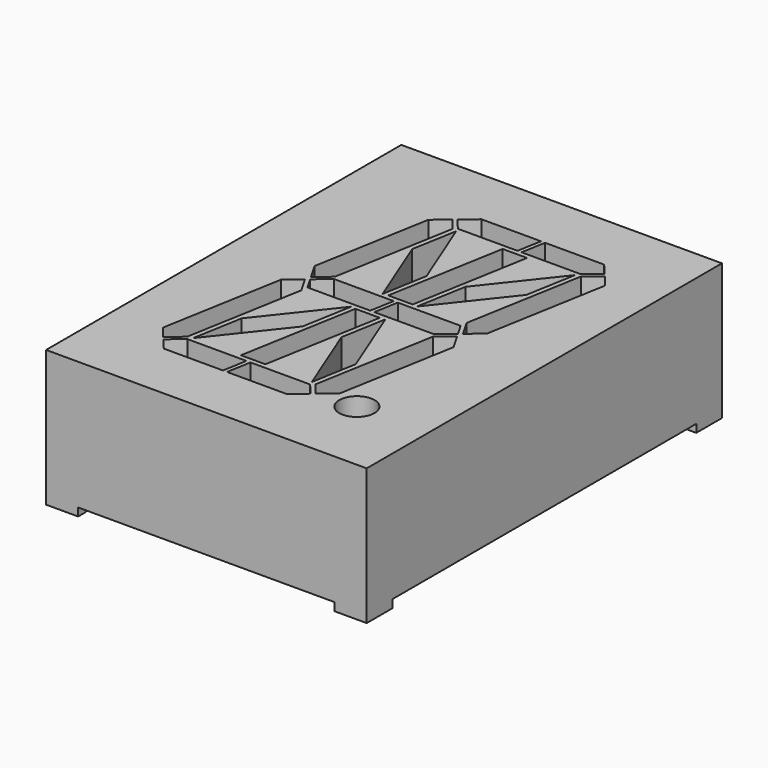
from build123d import *

# Parameters (mm, degrees)
SKETCH_W             = 18
SKETCH_H             = 25.7
PAD001_DEPTH         = 1
SKETCH002_R          = 1.1
PAD002_DEPTH         = 4.25
SKETCH004_W          = 20
SKETCH004_H          = 27.7
PAD004_DEPTH         = 8.5
SKETCH005_W          = 16
SKETCH005_H          = 0.5
POCKET_DEPTH         = 13.851
POCKET_DEPTH_BACK    = 13.851
SKETCH006_W          = 23.7
SKETCH006_H          = 0.5
POCKET001_DEPTH      = 10.001
POCKET001_DEPTH_BACK = 10.001
SKETCH007_W          = 18.8
SKETCH007_H          = 26.5
POCKET002_DEPTH      = 1


with BuildPart() as body004:
    # Sketch → Pad001 (new body)
    with BuildSketch(Plane.XY):
        Rectangle(SKETCH_W, SKETCH_H)
    extrude(amount=PAD001_DEPTH)

    # Sketch002 → Pad002 (join)
    with BuildSketch(Plane.XY):
        with Locations((5.556277, -9.06)):
            Circle(SKETCH002_R)
        Polygon((1.664554, 10.16), (1.400063, 8.66), (-2.320768, 8.66), (-2.950092, 9.41), (-2.056277, 10.16), align=None)
        Polygon((1.91841, 10.16), (1.65392, 8.66), (5.343461, 8.66), (6.237276, 9.41), (5.607952, 10.16), align=None)
        Polygon((-3.141603, 9.249303), (-2.512279, 8.499303), (-3.840514, 0.966506), (-4.734329, 0.216506), (-5.317726, 1.226979), (-4.035419, 8.499303), align=None)
        Polygon((6.397973, 9.218489), (5.504158, 8.468489), (4.217444, 1.171169), (4.80084, 0.160697), (5.694655, 0.910697), (7.027298, 8.468489), align=None)
        Polygon((-3.715514, 0.75), (-4.609329, 0), (-4.176316, -0.75), (-0.259174, -0.75), (0.005317, 0.75), align=None)
        Polygon((0.259174, 0.75), (-0.005317, -0.75), (3.715514, -0.75), (4.609329, 0), (4.176316, 0.75), align=None)
        Polygon((4.734329, -0.216506), (3.840514, -0.966506), (2.512279, -8.499303), (3.141603, -9.249303), (4.035419, -8.499303), (5.317726, -1.226979), align=None)
        Polygon((-4.217444, -1.171169), (-4.80084, -0.160697), (-5.694655, -0.910697), (-7.027298, -8.468489), (-6.397973, -9.218489), (-5.504158, -8.468489), align=None)
        Polygon((-5.343461, -8.66), (-6.237276, -9.41), (-5.607952, -10.16), (-1.91841, -10.16), (-1.65392, -8.66), align=None)
        Polygon((-1.400063, -8.66), (-1.664554, -10.16), (2.056277, -10.16), (2.950092, -9.41), (2.320768, -8.66), align=None)
        Polygon((-0.946713, -1.05), (0.576427, -1.05), (-0.712524, -8.36), (-2.235664, -8.36), align=None)
        Polygon((-0.576427, 1.05), (0.946713, 1.05), (2.235664, 8.36), (0.712524, 8.36), align=None)
        Polygon((-2.223397, 8.41), (-2.719177, 5.598295), (-0.889871, 1), (-0.394092, 3.811705), align=None)
        Polygon((1.791361, 4.112606), (1.242525, 1), (4.640381, 5.297394), (5.189217, 8.41), align=None)
        Polygon((0.889871, -1), (0.394092, -3.811705), (2.223397, -8.41), (2.719177, -5.598295), align=None)
        Polygon((-1.242525, -1), (-1.791361, -4.112606), (-5.189217, -8.41), (-4.640381, -5.297394), align=None)
    extrude(amount=PAD002_DEPTH)


with BuildPart() as body004_1:
    # Body001 placement: moved
    add(body004.part.moved(Location((0, 0, 4.25))))


with BuildPart() as obj1:
    # Sketch004 → Pad004 (new body)
    with BuildSketch(Plane.XY):
        Rectangle(SKETCH004_W, SKETCH004_H)
    extrude(amount=PAD004_DEPTH)

    # Sketch005 → Pocket (cut, two sides)
    with BuildSketch(Plane.XZ) as pocket_sk:
        with Locations((0, 0.25)):
            Rectangle(SKETCH005_W, SKETCH005_H)
    extrude(amount=-POCKET_DEPTH, mode=Mode.SUBTRACT)
    extrude(pocket_sk.sketch, amount=POCKET_DEPTH_BACK, mode=Mode.SUBTRACT)

    # Sketch006 → Pocket001 (cut, two sides)
    with BuildSketch(Plane.YZ) as pocket001_sk:
        with Locations((0, 0.25)):
            Rectangle(SKETCH006_W, SKETCH006_H)
    extrude(amount=-POCKET001_DEPTH, mode=Mode.SUBTRACT)
    extrude(pocket001_sk.sketch, amount=POCKET001_DEPTH_BACK, mode=Mode.SUBTRACT)

    # Sketch007 → Pocket002 (cut)
    with BuildSketch(Plane.XY):
        Rectangle(SKETCH007_W, SKETCH007_H)
    extrude(amount=POCKET002_DEPTH, mode=Mode.SUBTRACT)

    # Cut: cut Body004
    add(body004_1.part, mode=Mode.SUBTRACT)


solid = obj1.part
